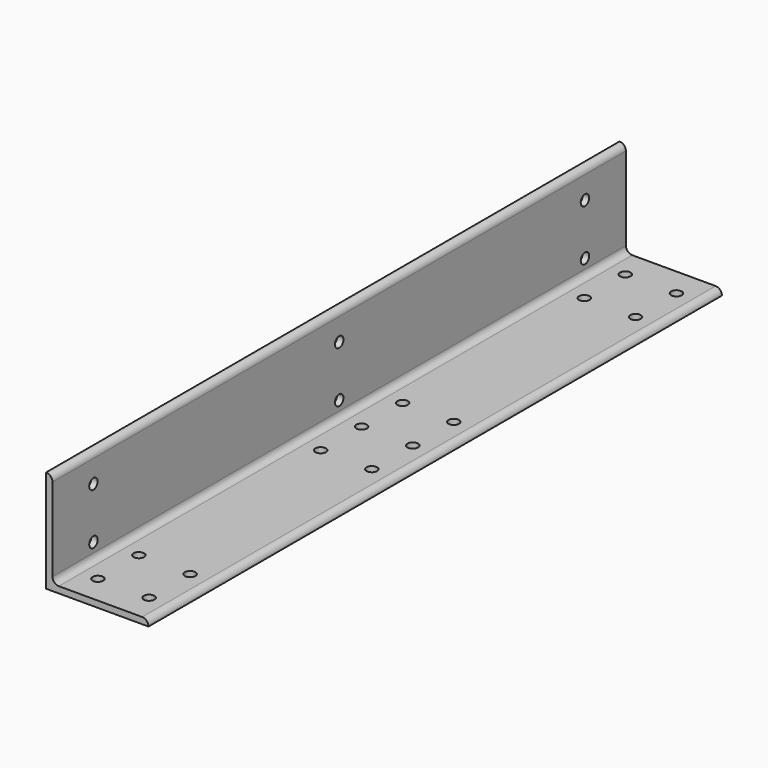
from build123d import *

# Parameters (mm, degrees)
F1_DEPTH = 355.6
F2_R     = 2.6162
F3_DEPTH = 3.176
F4_R     = 2.6162
F5_DEPTH = 3.176


with BuildPart() as f1:
    # F0 (on Front) → F1 (new body)
    with BuildSketch(Plane.XZ):
        with BuildLine():
            Line((-50.8, 0), (0, 0))
            ThreePointArc((0, 0), (-0.929936, 2.245064), (-3.175, 3.175))
            Line((-3.175, 3.175), (-44.45, 3.175))
            ThreePointArc((-44.45, 3.175), (-46.695064, 4.104936), (-47.625, 6.35))
            Line((-47.625, 6.35), (-47.625, 47.625))
            ThreePointArc((-47.625, 47.625), (-48.554936, 49.870064), (-50.8, 50.8))
            Line((-50.8, 50.8), (-50.8, 0))
        make_face()
    extrude(amount=F1_DEPTH)

    # F2 (on face) → F3 (cut, through all)
    with BuildSketch(Plane.YZ.offset(-47.625)):
        with Locations((-330.2, 11.1125)):
            Circle(F2_R)
        with Locations((-177.8, 11.1125)):
            Circle(F2_R)
        with Locations((-25.4, 11.1125)):
            Circle(F2_R)
        with Locations((-330.2, 36.5125)):
            Circle(F2_R)
        with Locations((-177.8, 36.5125)):
            Circle(F2_R)
        with Locations((-25.4, 36.5125)):
            Circle(F2_R)
    extrude(amount=-F3_DEPTH, mode=Mode.SUBTRACT)

    # F4 (on face) → F5 (cut, through all)
    with BuildSketch(Plane.XY.offset(3.175)):
        with Locations((-36.5125, -341.3125)):
            Circle(F4_R)
        with Locations((-36.5125, -14.2875)):
            Circle(F4_R)
        with Locations((-36.5125, -177.8)):
            Circle(F4_R)
        with Locations((-11.1125, -341.3125)):
            Circle(F4_R)
        with Locations((-11.1125, -177.8)):
            Circle(F4_R)
        with Locations((-11.1125, -14.2875)):
            Circle(F4_R)
        with Locations((-36.5125, -203.2)):
            Circle(F4_R)
        with Locations((-11.1125, -203.2)):
            Circle(F4_R)
        with Locations((-36.5125, -152.4)):
            Circle(F4_R)
        with Locations((-11.1125, -152.4)):
            Circle(F4_R)
        with Locations((-11.1125, -39.6875)):
            Circle(F4_R)
        with Locations((-36.5125, -39.6875)):
            Circle(F4_R)
        with Locations((-11.1125, -315.9125)):
            Circle(F4_R)
        with Locations((-36.5125, -315.9125)):
            Circle(F4_R)
    extrude(amount=-F5_DEPTH, mode=Mode.SUBTRACT)


solid = f1.part
